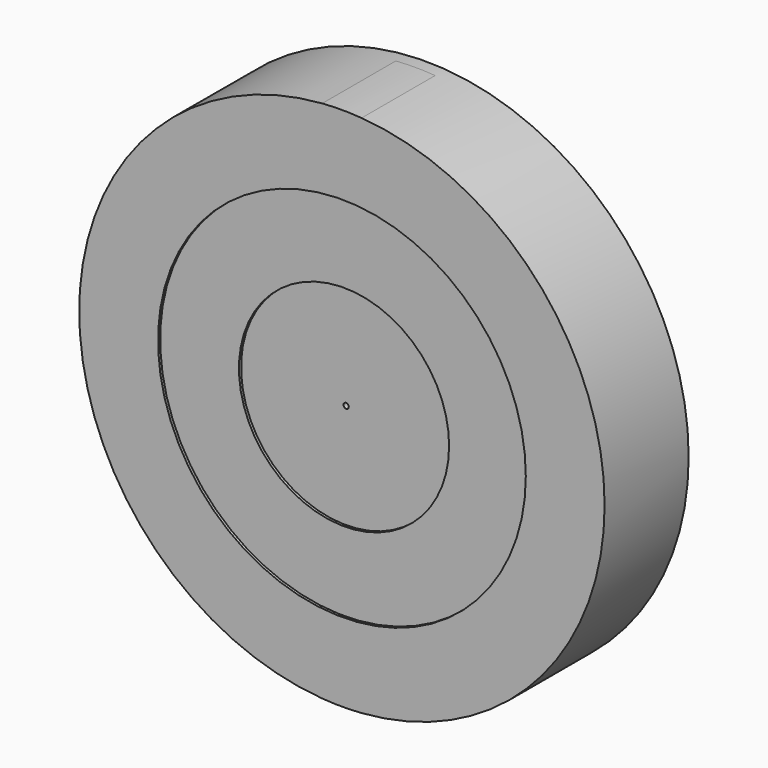
from build123d import *

# Parameters (mm, degrees)
F0_R      = 127
F1_DEPTH  = 50.8
F2_R      = 88.9
F3_DEPTH  = 1.27
F4_R      = 1.27
F5_DEPTH  = 50.8
F6_R      = 50.8
F7_DEPTH  = 1.27
F8_R      = 88.9
F8_R_2    = 38.1
F9_DEPTH  = 38.1
F10_SIZE  = 7.62
F11_R     = 5.08
F13_DEPTH = 44.45
F14_R     = 30.068591
F14_R_2   = 1.27
F15_DEPTH = 1.27


with BuildPart() as f1:
    # F0 (on Front) → F1 (new body)
    with BuildSketch(Plane.XZ):
        Circle(F0_R)
    extrude(amount=F1_DEPTH)

    # F2 (on face) → F3 (cut)
    with BuildSketch(Plane.XZ.offset(50.8)):
        Circle(F2_R)
    extrude(amount=-F3_DEPTH, mode=Mode.SUBTRACT)

    # F4 (on face) → F5 (cut)
    with BuildSketch(Plane.XZ.offset(49.53)):
        Circle(F4_R)
    extrude(amount=-F5_DEPTH, mode=Mode.SUBTRACT)

    # F6 (on face) → F7 (cut)
    with BuildSketch(Plane.XZ.offset(49.53)):
        Circle(F6_R)
    extrude(amount=-F7_DEPTH, mode=Mode.SUBTRACT)

    # F8 (on face) → F9 (cut)
    with BuildSketch(Plane(origin=(0, 0, 0), x_dir=(-1, 0, 0), z_dir=(0, 1, 0))):
        Circle(F8_R)
        Circle(F8_R_2, mode=Mode.SUBTRACT)
    extrude(amount=-F9_DEPTH, mode=Mode.SUBTRACT)

    # F10
    f10_edges = [f1.edges().sort_by_distance(p)[0] for p in [
        (38.1, -38.1, 0),
    ]]
    chamfer(f10_edges, length=F10_SIZE)

    # F11
    f11_edges = [f1.edges().sort_by_distance(p)[0] for p in [
        (88.9, -38.1, 0),
    ]]
    fillet(f11_edges, radius=F11_R)

    # F12 (on face) → F13 (join)
    with BuildSketch(Plane.XZ.offset(50.8)):
        with BuildLine():
            ThreePointArc((-2.998611, 107.908345), (0, 107.95), (2.998611, 107.908345))
            ThreePointArc((2.998611, 107.908345), (7.602326, 109.70383), (9.525, 114.255894))
            Line((9.525, 114.255894), (9.525, 126.642309))
            ThreePointArc((9.525, 126.642309), (0, 127), (-9.525, 126.642309))
            Line((-9.525, 126.642309), (-9.525, 114.255894))
            ThreePointArc((-9.525, 114.255894), (-7.602326, 109.70383), (-2.998611, 107.908345))
        make_face()
        with BuildLine():
            Line((-74.055926, 87.52631), (-82.814443, 96.284827))
            ThreePointArc((-82.814443, 96.284827), (-89.802561, 89.802561), (-96.284827, 82.814443))
            Line((-96.284827, 82.814443), (-87.52631, 74.055926))
            ThreePointArc((-87.52631, 74.055926), (-82.947979, 72.196666), (-78.42306, 74.182384))
            ThreePointArc((-78.42306, 74.182384), (-76.332177, 76.332177), (-74.182384, 78.42306))
            ThreePointArc((-74.182384, 78.42306), (-72.196666, 82.947979), (-74.055926, 87.52631))
        make_face()
        with BuildLine():
            Line((-114.255894, 9.525), (-126.642309, 9.525))
            ThreePointArc((-126.642309, 9.525), (-127, 0), (-126.642309, -9.525))
            Line((-126.642309, -9.525), (-114.255894, -9.525))
            ThreePointArc((-114.255894, -9.525), (-109.70383, -7.602326), (-107.908345, -2.998611))
            ThreePointArc((-107.908345, -2.998611), (-107.95, 0), (-107.908345, 2.998611))
            ThreePointArc((-107.908345, 2.998611), (-109.70383, 7.602326), (-114.255894, 9.525))
        make_face()
        with BuildLine():
            Line((-87.52631, -74.055926), (-96.284827, -82.814443))
            ThreePointArc((-96.284827, -82.814443), (-89.802561, -89.802561), (-82.814443, -96.284827))
            Line((-82.814443, -96.284827), (-74.055926, -87.52631))
            ThreePointArc((-74.055926, -87.52631), (-72.196666, -82.947979), (-74.182384, -78.42306))
            ThreePointArc((-74.182384, -78.42306), (-76.332177, -76.332177), (-78.42306, -74.182384))
            ThreePointArc((-78.42306, -74.182384), (-82.947979, -72.196666), (-87.52631, -74.055926))
        make_face()
        with BuildLine():
            Line((-9.525, -114.255894), (-9.525, -126.642309))
            ThreePointArc((-9.525, -126.642309), (0, -127), (9.525, -126.642309))
            Line((9.525, -126.642309), (9.525, -114.255894))
            ThreePointArc((9.525, -114.255894), (7.602326, -109.70383), (2.998611, -107.908345))
            ThreePointArc((2.998611, -107.908345), (0, -107.95), (-2.998611, -107.908345))
            ThreePointArc((-2.998611, -107.908345), (-7.602326, -109.70383), (-9.525, -114.255894))
        make_face()
        with BuildLine():
            Line((74.055926, -87.52631), (82.814443, -96.284827))
            ThreePointArc((82.814443, -96.284827), (89.802561, -89.802561), (96.284827, -82.814443))
            Line((96.284827, -82.814443), (87.52631, -74.055926))
            ThreePointArc((87.52631, -74.055926), (82.947979, -72.196666), (78.42306, -74.182384))
            ThreePointArc((78.42306, -74.182384), (76.332177, -76.332177), (74.182384, -78.42306))
            ThreePointArc((74.182384, -78.42306), (72.196666, -82.947979), (74.055926, -87.52631))
        make_face()
        with BuildLine():
            Line((114.255894, -9.525), (126.642309, -9.525))
            ThreePointArc((126.642309, -9.525), (127, 0), (126.642309, 9.525))
            Line((126.642309, 9.525), (114.255894, 9.525))
            ThreePointArc((114.255894, 9.525), (109.70383, 7.602326), (107.908345, 2.998611))
            ThreePointArc((107.908345, 2.998611), (107.95, 0), (107.908345, -2.998611))
            ThreePointArc((107.908345, -2.998611), (109.70383, -7.602326), (114.255894, -9.525))
        make_face()
        with BuildLine():
            Line((87.52631, 74.055926), (96.284827, 82.814443))
            ThreePointArc((96.284827, 82.814443), (89.802561, 89.802561), (82.814443, 96.284827))
            Line((82.814443, 96.284827), (74.055926, 87.52631))
            ThreePointArc((74.055926, 87.52631), (72.196666, 82.947979), (74.182384, 78.42306))
            ThreePointArc((74.182384, 78.42306), (76.332177, 76.332177), (78.42306, 74.182384))
            ThreePointArc((78.42306, 74.182384), (82.947979, 72.196666), (87.52631, 74.055926))
        make_face()
    extrude(amount=-F13_DEPTH)

    # F14 (on face) → F15 (cut)
    with BuildSketch(Plane(origin=(0, 0, 0), x_dir=(-1, 0, 0), z_dir=(0, 1, 0))):
        Circle(F14_R)
        Circle(F14_R_2, mode=Mode.SUBTRACT)
    extrude(amount=-F15_DEPTH, mode=Mode.SUBTRACT)


solid = f1.part
